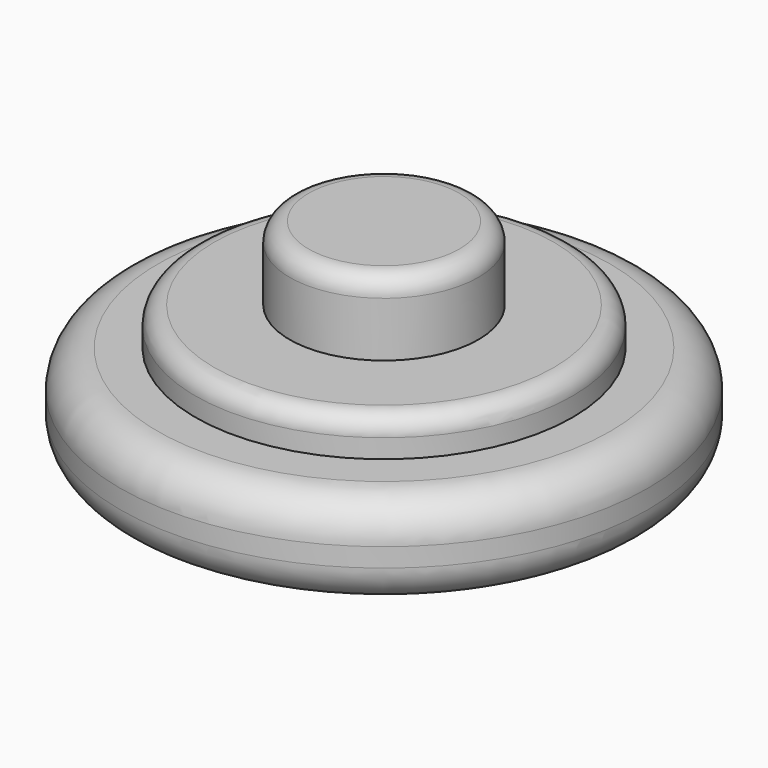
from build123d import *

# Parameters (mm, degrees)
CYLINDER_R     = 11.1125
CYLINDER_DEPTH = 3.96875
FILLET002_R    = 1.5875
FILLET003_R    = 1.5875
SKETCH001_R    = 7.9375
PAD001_DEPTH   = 1.5875
FILLET004_R    = 0.79375
SKETCH002_R    = 3.96875
PAD002_DEPTH   = 3.1
FILLET005_R    = 0.79375


with BuildPart() as part:
    # Cylinder → Cylinder (new body)
    with BuildSketch(Plane.XY):
        Circle(CYLINDER_R)
    extrude(amount=CYLINDER_DEPTH)

    # Fillet002
    fillet002_edges = [part.edges().sort_by_distance(p)[0] for p in [
        (-11.1125, 0, 3.96875),
    ]]
    fillet(fillet002_edges, radius=FILLET002_R)

    # Fillet003
    fillet003_edges = [part.edges().sort_by_distance(p)[0] for p in [
        (-11.1125, 0, 0),
    ]]
    fillet(fillet003_edges, radius=FILLET003_R)

    # Sketch001 → Pad001 (new body)
    with BuildSketch(Plane.XY.offset(3.96875)):
        Circle(SKETCH001_R)
    extrude(amount=PAD001_DEPTH)

    # Fillet004
    fillet004_edges = [part.edges().sort_by_distance(p)[0] for p in [
        (-7.9375, 0, 5.55625),
    ]]
    fillet(fillet004_edges, radius=FILLET004_R)

    # Sketch002 → Pad002 (new body)
    with BuildSketch(Plane.XY.offset(5.55625)):
        Circle(SKETCH002_R)
    extrude(amount=PAD002_DEPTH)

    # Fillet005
    fillet005_edges = [part.edges().sort_by_distance(p)[0] for p in [
        (-3.96875, 0, 8.65625),
    ]]
    fillet(fillet005_edges, radius=FILLET005_R)


solid = part.part
